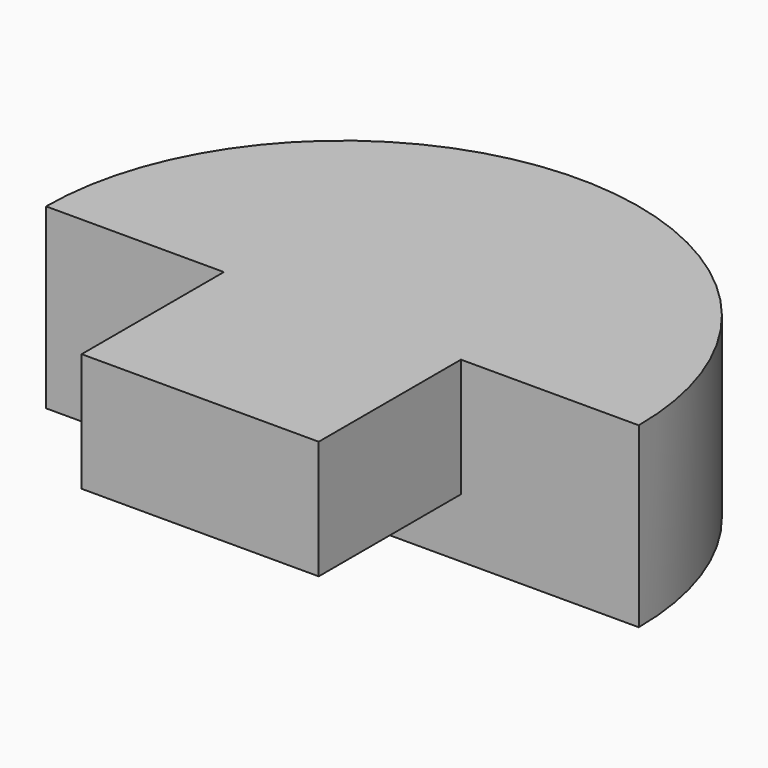
from build123d import *

# Parameters (mm, degrees)
CYLINDER048_W                = 5
CYLINDER048_H                = 3
CYLINDER048_ANGLE            = 180
BOX044_W                     = 4
BOX044_H                     = 5
BOX044_DEPTH                 = 2
FUSION002025_PLACEMENT_ANGLE = 180


with BuildPart() as cilindro048:
    # Cylinder048 → Cylinder048 (revolve)
    with BuildSketch(Plane(origin=(-39, 48, 44), x_dir=(-1, 0, 0), z_dir=(0, 1, 0))):
        with Locations((2.5, 1.5)):
            Rectangle(CYLINDER048_W, CYLINDER048_H)
    revolve(axis=Axis((-39, 48, 44), (0, 0, 1)), revolution_arc=CYLINDER048_ANGLE)


with BuildPart() as fusion002025:
    # Box044 → Box044 (new body)
    with BuildSketch(Plane(origin=(-41, 46, 45), x_dir=(1, 0, 0), z_dir=(0, 0, 1))):
        with Locations((2, 2.5)):
            Rectangle(BOX044_W, BOX044_H)
    extrude(amount=BOX044_DEPTH)

    # Fusion002025: union Cilindro048
    add(cilindro048.part)


with BuildPart() as fusion002025_1:
    # Fusion002025 placement: moved
    add(fusion002025.part.moved(Location((-78, 119, 0))).rotate(Axis((-78, 119, 0), (0, 0, 1)), FUSION002025_PLACEMENT_ANGLE))


solid = fusion002025_1.part
